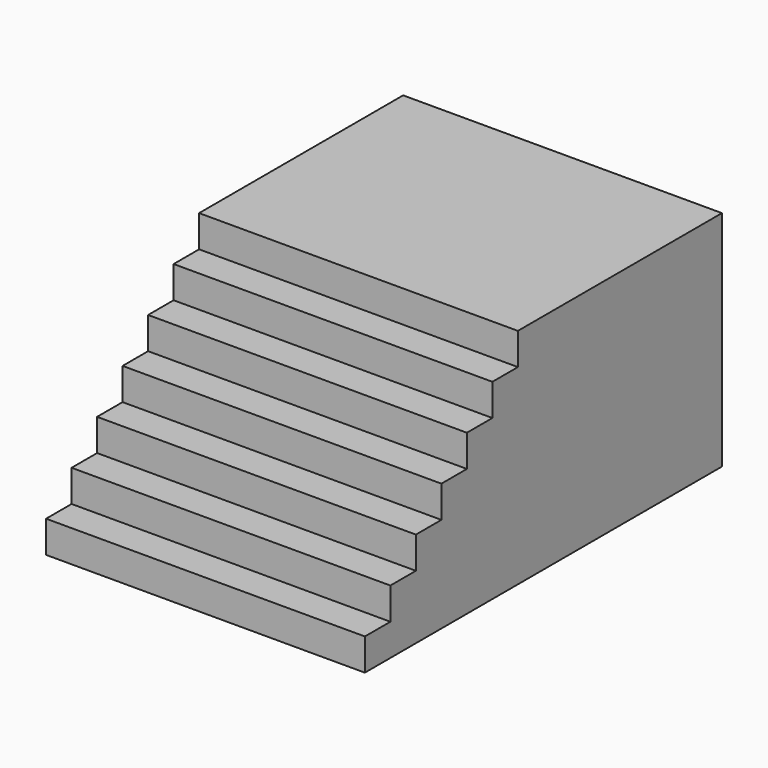
from build123d import *

# Parameters (mm, degrees)
F0_W      = 127
F0_H      = 177.8
F1_DEPTH  = 12.7
F2_W      = 127
F2_H      = 165.1
F3_DEPTH  = 12.7
F4_W      = 127
F4_H      = 152.4
F5_DEPTH  = 12.7
F6_W      = 127
F6_H      = 139.7
F7_DEPTH  = 12.7
F8_W      = 127
F8_H      = 127
F9_DEPTH  = 12.7
F10_W     = 127
F10_H     = 114.3
F11_DEPTH = 12.7
F12_W     = 127
F12_H     = 101.6
F13_DEPTH = 12.7


with BuildPart() as f1:
    # F0 (on Top) → F1 (new body)
    with BuildSketch(Plane.XY):
        Rectangle(F0_W, F0_H)
    extrude(amount=F1_DEPTH)

    # F2 (on face) → F3 (join)
    with BuildSketch(Plane.XY.offset(12.7)):
        with Locations((0, 6.35)):
            Rectangle(F2_W, F2_H)
    extrude(amount=F3_DEPTH)

    # F4 (on face) → F5 (join)
    with BuildSketch(Plane.XY.offset(25.4)):
        with Locations((0, 12.7)):
            Rectangle(F4_W, F4_H)
    extrude(amount=F5_DEPTH)

    # F6 (on face) → F7 (join)
    with BuildSketch(Plane.XY.offset(38.1)):
        with Locations((0, 19.05)):
            Rectangle(F6_W, F6_H)
    extrude(amount=F7_DEPTH)

    # F8 (on face) → F9 (join)
    with BuildSketch(Plane.XY.offset(50.8)):
        with Locations((0, 25.4)):
            Rectangle(F8_W, F8_H)
    extrude(amount=F9_DEPTH)

    # F10 (on face) → F11 (join)
    with BuildSketch(Plane.XY.offset(63.5)):
        with Locations((0, 31.75)):
            Rectangle(F10_W, F10_H)
    extrude(amount=F11_DEPTH)

    # F12 (on face) → F13 (join)
    with BuildSketch(Plane.XY.offset(76.2)):
        with Locations((0, 38.1)):
            Rectangle(F12_W, F12_H)
    extrude(amount=F13_DEPTH)


solid = f1.part
